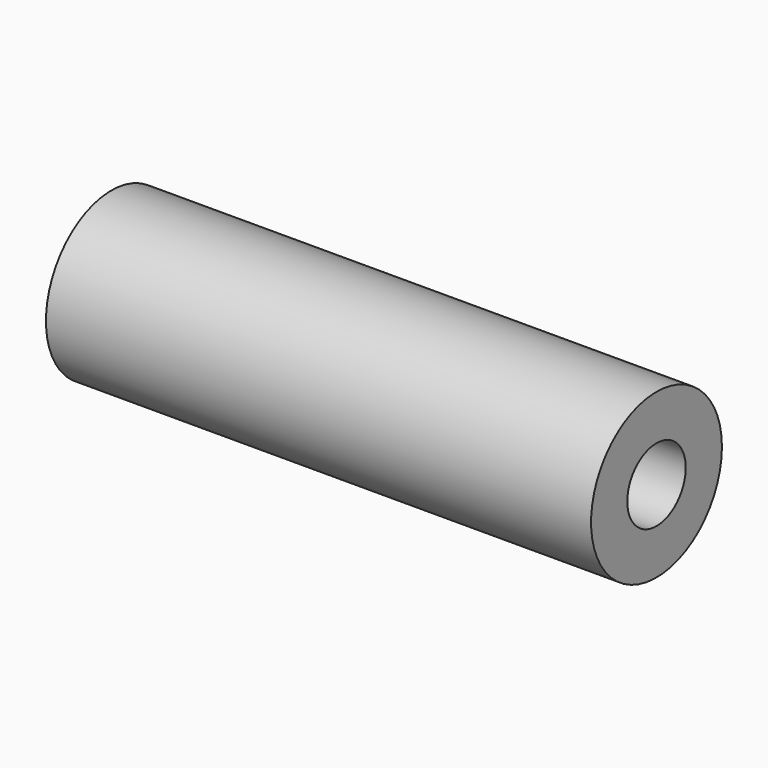
from build123d import *

# Parameters (mm, degrees)
F0_R     = 5.715
F1_DEPTH = 38.1
F3_D     = 5.1054


with BuildPart() as f1:
    # F0 (on Right) → F1 (new body)
    with BuildSketch(Plane.YZ):
        Circle(F0_R)
    extrude(amount=F1_DEPTH)

    # F3 (through all)
    with Locations(Plane.YZ.offset(38.1)):
        with Locations((0, 0)):
            Hole(F3_D / 2)


solid = f1.part
